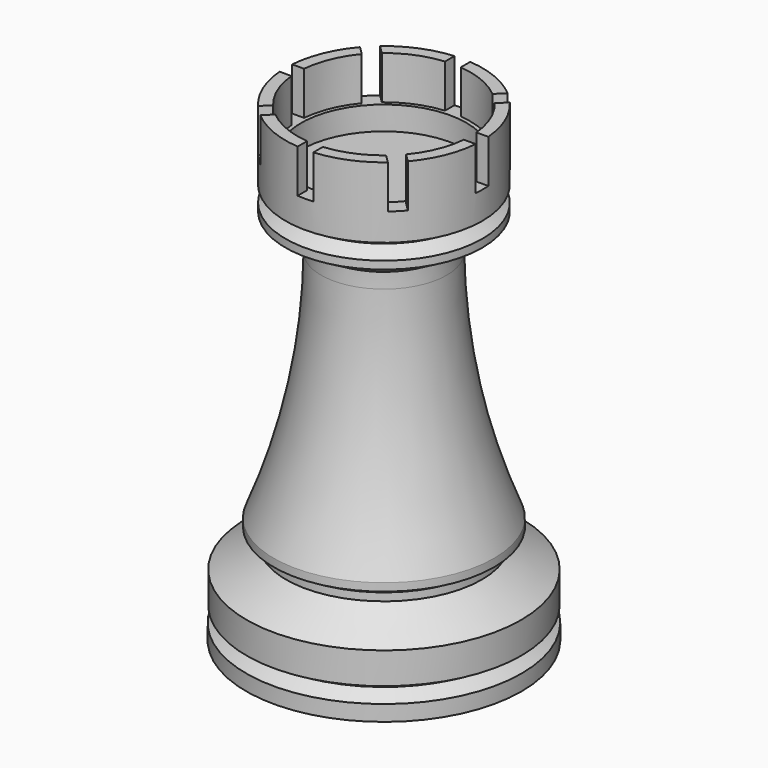
from build123d import *

# Parameters (mm, degrees)
F3_DEPTH = 27
F4_R     = 10.5
F5_DEPTH = 3


with BuildPart() as f1:
    # F0 (on Front) → F1 (revolve)
    with BuildSketch(Plane.XZ):
        with BuildLine():
            Line((0, 6), (0, 0))
            Line((0, 0), (17.5, 0))
            Line((17.5, 0), (17.5, 2))
            Line((17.5, 2), (15.767949, 3))
            Line((15.767949, 3), (17.445428, 3.968493))
            Line((17.445428, 3.968493), (17.445428, 7.968493))
            Line((17.445428, 7.968493), (12.445428, 10.855244))
            Line((12.445428, 10.855244), (12.445428, 11.855244))
            Line((12.445428, 11.855244), (14, 12.752777))
            Line((14, 12.752777), (14, 13.752777))
            ThreePointArc((14, 13.752777), (9.586573, 28.322839), (7.982154, 43.461892))
            Line((7.982154, 43.461892), (7.960461, 45.379096))
            Line((7.960461, 45.379096), (12.5, 48))
            Line((12.5, 48), (12.5, 49))
            Line((12.5, 49), (10.767949, 50))
            Line((10.767949, 50), (12.5, 51))
            Line((12.5, 51), (12.5, 60))
            Line((12.5, 60), (11, 60))
            Line((11, 60), (11, 54.5))
            Line((11, 54.5), (0, 54.5))
            Line((0, 54.5), (0, 6))
        make_face()
    revolve(axis=Axis((0, 0, 30), (0, 0, 1)))

    # F2 (on face) → F3 (cut)
    with BuildSketch(Plane.XY.offset(54.5)):
        Polygon((1, 0), (0, 0), (-0.707107, 0.707107), (-1, 0.414214), (-1, -0.414214), (-0.414214, -1), (0.414214, -1), (1, -1), (1, -0.414214), align=None)
        Polygon((2.414214, 1), (1.414214, 0), (33.121221, 0), (33.121221, 1), align=None)
        Polygon((33.121221, 0), (1.414214, 0), (2.414214, -1), (33.121221, -1), align=None)
        Polygon((-1, 2.414214), (0, 1.414214), (0, 23.9831), (-1, 23.9831), align=None)
        Polygon((0, 23.9831), (0, 1.414214), (1, 2.414214), (1, 23.9831), align=None)
        Polygon((21.433732, 21.433732), (1, 1), (2.414214, 1), (22.140839, 20.726625), align=None)
        Polygon((1, 2.414214), (1, 1), (21.433732, 21.433732), (20.726625, 22.140839), align=None)
        Polygon((-18.999232, 18.999232), (-1, 1), (-1, 2.414214), (-18.31192, 19.726133), align=None)
        Polygon((-2.414214, 1), (-1, 1), (-18.999232, 18.999232), (-19.686545, 18.272332), align=None)
        Polygon((21.433732, -20.019518), (2.414214, -1), (1, -1), (1, -2.414214), (20.019518, -21.433732), align=None)
        Polygon((-2.414214, -1), (-1.414214, 0), (-2.414214, 1), (-22.418227, 1), (-22.418227, -1), align=None)
        Polygon((1, -22.243075), (1, -2.414214), (0, -1.414214), (-1, -2.414214), (-1, -22.243075), align=None)
        Polygon((-1, -2.414214), (-1, -1), (-2.414214, -1), (-23.888705, -22.474491), (-22.474491, -23.888705), align=None)
    extrude(amount=F3_DEPTH, mode=Mode.SUBTRACT)

    # F4 (on face) → F5 (cut)
    with BuildSketch(Plane.XY.offset(54.5)):
        Circle(F4_R)
    extrude(amount=-F5_DEPTH, mode=Mode.SUBTRACT)


solid = f1.part
